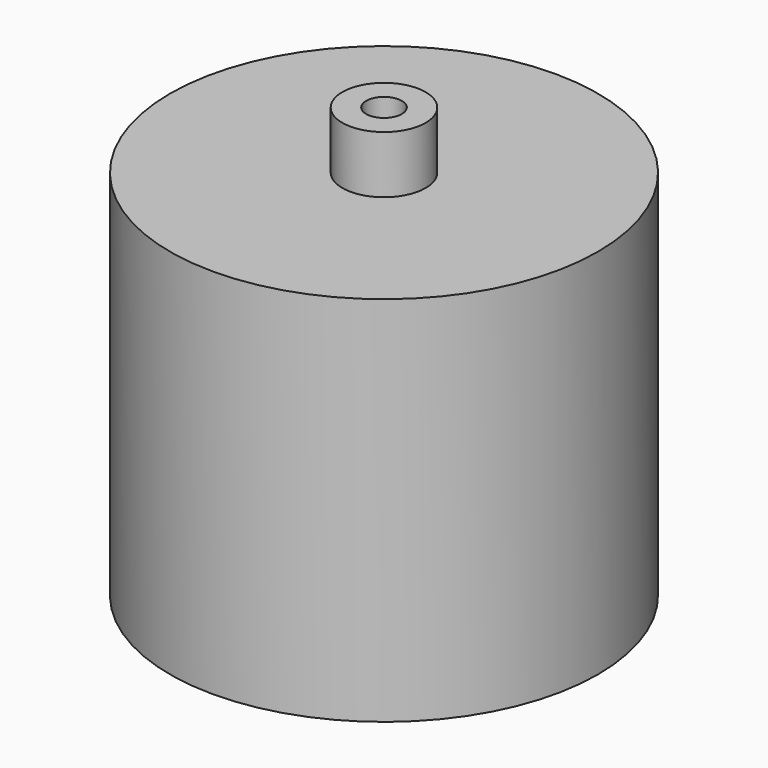
from build123d import *

# Parameters (mm, degrees)
F3_D     = 12.7
F3_DEPTH = 101.6
F3_TIP   = 3.8154649308


with BuildPart() as f1:
    # F0 (on Front) → F1 (revolve)
    with BuildSketch(Plane.XZ):
        Polygon((14.8333879188, 76.4790847898), (0, 76.4899104834), (0, 43.3194376528), (61.6134181619, 43.3194376528), (61.6134181619, -63.8560429215), (0, -63.8560429215), (0, -76.4899104834), (76.2181654572, -76.4899104834), (76.2181654572, 56.0453906655), (14.8333879188, 56.0453906655), align=None)
    revolve(axis=Axis((0, 0, 0), (0, 0, -1)))

    # F3 (one way)
    with BuildSketch(Plane(origin=(0, 0, 56.0453906655), x_dir=(1, 0, 0), z_dir=(0, 0, -1))):
        with Locations((0, 0)):
            Circle(F3_D / 2)
    extrude(amount=-F3_DEPTH, mode=Mode.SUBTRACT)
    with Locations(Plane(origin=(0, 0, 56.0453906655), x_dir=(1, 0, 0), z_dir=(0, 0, -1))):
        with Locations((0, 0)):
            with Locations((0, 0, -(F3_DEPTH + F3_TIP / 2))):  # 118° drill point
                Cone(0, F3_D / 2, F3_TIP, mode=Mode.SUBTRACT)


solid = f1.part
